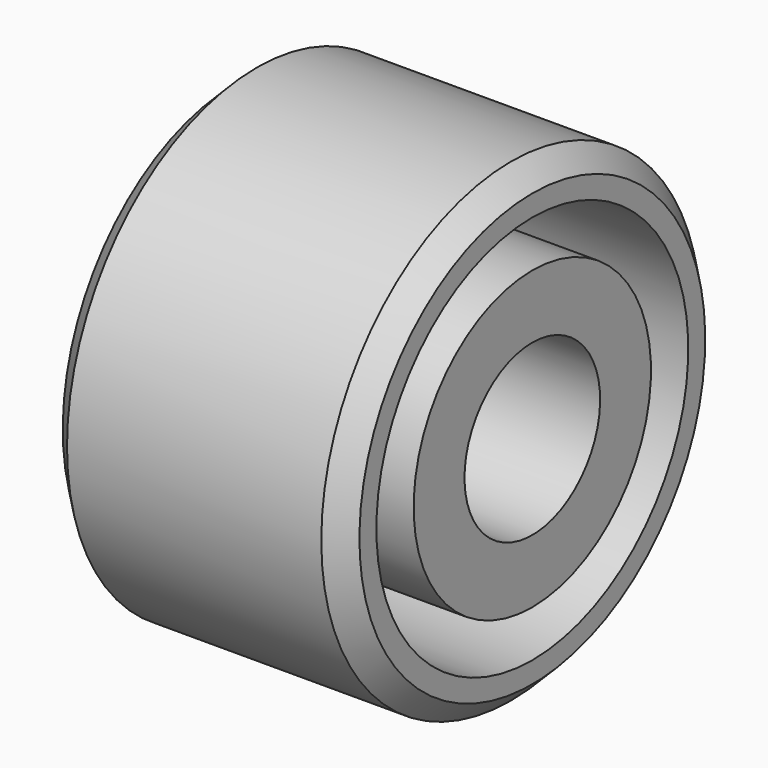
from build123d import *

# Parameters (mm, degrees)
F2_SIZE = 6.35


with BuildPart() as f1:
    # F0 (on Front) → F1 (revolve)
    with BuildSketch(Plane.XZ):
        Polygon((-47.655353, 25.4), (41.244647, 25.4), (41.244647, 44.45), (-34.955353, 44.45), (-34.955353, 64.77), (-14.635353, 64.77), (-14.635353, 58.42), (41.244647, 58.42), (41.244647, 71.12), (-47.655353, 71.12), align=None)
    revolve(axis=Axis((-3.749629, 0, 0), (-1, 0, 0)))

    # F2
    f2_edges = [f1.edges().sort_by_distance(p)[0] for p in [
        (41.244647, 0, -71.12),
        (-47.655353, 0, -71.12),
    ]]
    chamfer(f2_edges, length=F2_SIZE)


solid = f1.part
